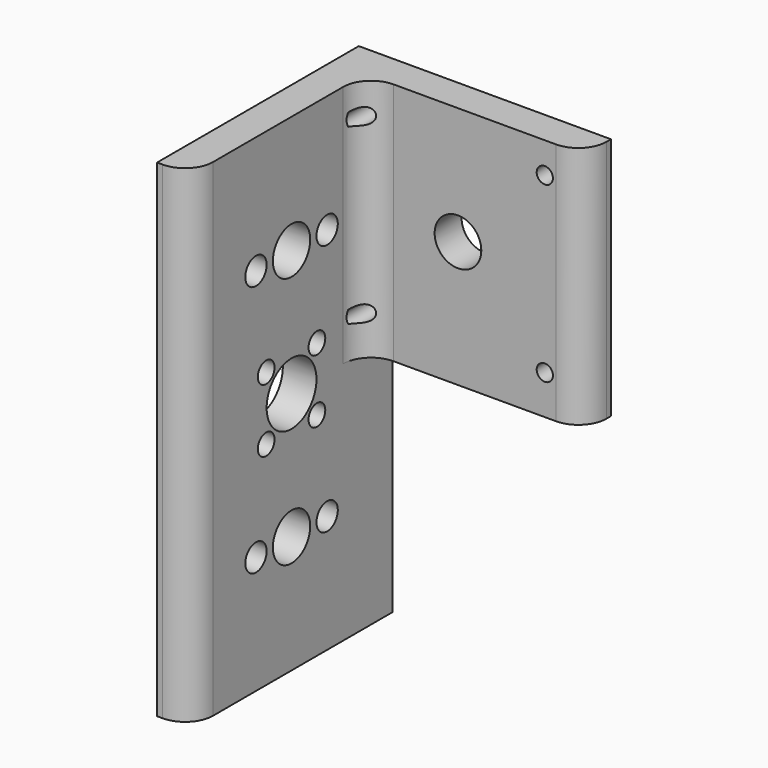
from build123d import *

# Parameters (mm, degrees)
PAD_DEPTH            = 87
SKETCH001_R          = 4.165
POCKET_DEPTH         = 0.001
POCKET_DEPTH_BACK    = 45.001
SKETCH002_R          = 4.165
POCKET001_DEPTH      = 0.001
POCKET001_DEPTH_BACK = 45.001
FILLET_R             = 5
SKETCH004_R          = 2.38125
POCKET002_DEPTH      = 0.001
POCKET002_DEPTH_BACK = 45.001
LINEARPATTERN_COUNT  = 2
LINEARPATTERN_PITCH  = 45
SKETCH005_R          = 5.55625
SKETCH005_R_2        = 1.867
POCKET003_DEPTH      = 0.001
POCKET003_DEPTH_BACK = 45.001
SKETCH006_R          = 1.45
HOLE_DEPTH           = 10
HOLE_TIPS_R          = 1.45
SKETCH007_W          = 60
SKETCH007_H          = 60
POCKET004_DEPTH      = 43.5


with BuildPart() as part:
    # Sketch → Pad (new body)
    with BuildSketch(Plane.XY):
        Polygon((0, 0), (45, 0), (45, -6), (6, -6), (6, -45), (0, -45), align=None)
    extrude(amount=PAD_DEPTH)

    # Sketch001 → Pocket (cut, two sides)
    with BuildSketch(Plane.YZ) as pocket_sk:
        with Locations((-22.5, 21)):
            Circle(SKETCH001_R)
        with Locations((-22.5, 66)):
            Circle(SKETCH001_R)
    extrude(amount=-POCKET_DEPTH, mode=Mode.SUBTRACT)
    extrude(pocket_sk.sketch, amount=POCKET_DEPTH_BACK, mode=Mode.SUBTRACT)

    # Sketch002 → Pocket001 (cut, two sides)
    with BuildSketch(Plane.XZ) as pocket001_sk:
        with Locations((22.5, 66)):
            Circle(SKETCH002_R)
        with Locations((22.5, 21)):
            Circle(SKETCH002_R)
    extrude(amount=-POCKET001_DEPTH, mode=Mode.SUBTRACT)
    extrude(pocket001_sk.sketch, amount=POCKET001_DEPTH_BACK, mode=Mode.SUBTRACT)

    # Fillet
    fillet_edges = [part.edges().sort_by_distance(p)[0] for p in [
        (6, -45, 43.5),
        (45, -6, 43.5),
        (6, -6, 43.5),
    ]]
    fillet(fillet_edges, radius=FILLET_R)

    # Sketch004 → Pocket002 (cut, two sides)
    with BuildSketch(Plane.YZ) as pocket002_sk:
        with Locations((-14.5625, 21)):
            Circle(SKETCH004_R)
        with Locations((-30.4375, 21)):
            Circle(SKETCH004_R)
    pocket002 = extrude(amount=-POCKET002_DEPTH, mode=Mode.SUBTRACT) + extrude(pocket002_sk.sketch, amount=POCKET002_DEPTH_BACK, mode=Mode.SUBTRACT)

    # LinearPattern: Pocket002 ×2
    with Locations(*[(0, 0, i * LINEARPATTERN_PITCH) for i in range(1, LINEARPATTERN_COUNT)]):
        add(pocket002, mode=Mode.SUBTRACT)

    # Sketch005 → Pocket003 (cut, two sides)
    with BuildSketch(Plane.YZ) as pocket003_sk:
        with Locations((-22.5, 43.5)):
            Circle(SKETCH005_R)
        with Locations((-28.156854, 49.156854)):
            Circle(SKETCH005_R_2)
        with Locations((-16.843146, 37.843146)):
            Circle(SKETCH005_R_2)
        with Locations((-16.843146, 49.156854)):
            Circle(SKETCH005_R_2)
        with Locations((-28.156854, 37.843146)):
            Circle(SKETCH005_R_2)
    extrude(amount=-POCKET003_DEPTH, mode=Mode.SUBTRACT)
    extrude(pocket003_sk.sketch, amount=POCKET003_DEPTH_BACK, mode=Mode.SUBTRACT)

    # Sketch006 → Hole (cut)
    with BuildSketch(Plane.XZ):
        with Locations((7, 81.5)):
            Circle(SKETCH006_R)
        with Locations((38, 81.5)):
            Circle(SKETCH006_R)
        with Locations((38, 50.5)):
            Circle(SKETCH006_R)
        with Locations((7, 50.5)):
            Circle(SKETCH006_R)
    extrude(amount=HOLE_DEPTH, mode=Mode.SUBTRACT)

    # Hole tips → Hole tip 1 section 0
    with BuildSketch(Plane.XZ.offset(10), mode=Mode.PRIVATE) as hole_tip_1_s0:
        with Locations((7, 81.5)):
            Circle(HOLE_TIPS_R)
    loft([hole_tip_1_s0.sketch, Vertex(7, -10.871248, 81.5)], mode=Mode.SUBTRACT)

    # Hole tips → Hole tip 2 section 0
    with BuildSketch(Plane.XZ.offset(10), mode=Mode.PRIVATE) as hole_tip_2_s0:
        with Locations((38, 81.5)):
            Circle(HOLE_TIPS_R)
    loft([hole_tip_2_s0.sketch, Vertex(38, -10.871248, 81.5)], mode=Mode.SUBTRACT)

    # Hole tips → Hole tip 3 section 0
    with BuildSketch(Plane.XZ.offset(10), mode=Mode.PRIVATE) as hole_tip_3_s0:
        with Locations((38, 50.5)):
            Circle(HOLE_TIPS_R)
    loft([hole_tip_3_s0.sketch, Vertex(38, -10.871248, 50.5)], mode=Mode.SUBTRACT)

    # Hole tips → Hole tip 4 section 0
    with BuildSketch(Plane.XZ.offset(10), mode=Mode.PRIVATE) as hole_tip_4_s0:
        with Locations((7, 50.5)):
            Circle(HOLE_TIPS_R)
    loft([hole_tip_4_s0.sketch, Vertex(7, -10.871248, 50.5)], mode=Mode.SUBTRACT)

    # Sketch007 → Pocket004 (cut)
    with BuildSketch(Plane.XY):
        with Locations((36, 0)):
            Rectangle(SKETCH007_W, SKETCH007_H)
    extrude(amount=POCKET004_DEPTH, mode=Mode.SUBTRACT)


solid = part.part
